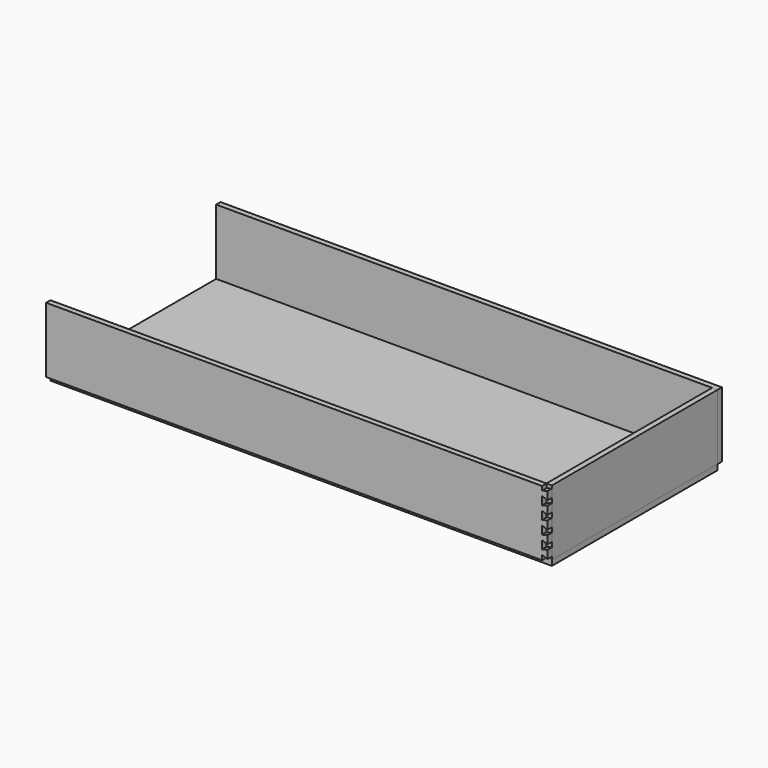
from build123d import *

# Parameters (mm, degrees)
F0_W     = 1168.4
F0_H     = 482.6
F1_DEPTH = 6.35
F2_W     = 1168.4
F2_H     = 152.4
F3_DEPTH = 12.7
F4_W     = 1168.4
F4_H     = 152.4
F5_DEPTH = 12.7
F6_W     = 482.6
F6_H     = 152.4
F7_DEPTH = 12.7
F9_DEPTH = 12.7


with BuildPart() as f1:
    # F0 (on Top) → F1 (new body, symmetric)
    with BuildSketch(Plane.XY):
        with Locations((-5.750306, -127.670162)):
            Rectangle(F0_W, F0_H)
    extrude(amount=F1_DEPTH, both=True)


with BuildPart() as f3:
    # F2 (on face) → F3 (new body)
    with BuildSketch(Plane.XZ.offset(368.970162)):
        with Locations((-5.750306, 82.55)):
            Rectangle(F2_W, F2_H)
    extrude(amount=F3_DEPTH)

    # F8 (on face) → F9 (cut)
    with BuildSketch(Plane.XZ.offset(381.670162)):
        Polygon((565.749694, 158.75), (565.749694, 149.225), (578.449694, 152.4), (578.449694, 158.75), align=None)
        Polygon((578.449694, 122.2375), (578.449694, 133.35), (565.749694, 138.1125), (565.749694, 119.0625), align=None)
        Polygon((578.449694, 92.075), (578.449694, 103.1875), (565.749694, 107.95), (565.749694, 88.9), align=None)
        Polygon((578.449694, 61.9125), (578.449694, 73.025), (565.749694, 77.7875), (565.749694, 58.7375), align=None)
        Polygon((578.449694, 31.75), (578.449694, 42.8625), (565.749694, 47.625), (565.749694, 28.575), align=None)
        Polygon((578.449694, 12.7), (565.749694, 17.4498), (565.749694, 6.35), (578.449694, 6.35), align=None)
    extrude(amount=-F9_DEPTH, mode=Mode.SUBTRACT)


with BuildPart() as f5:
    # F4 (on face) → F5 (new body)
    with BuildSketch(Plane(origin=(0, 113.629838, 0), x_dir=(-1, 0, 0), z_dir=(0, 1, 0))):
        with Locations((5.750306, 82.55)):
            Rectangle(F4_W, F4_H)
    extrude(amount=F5_DEPTH)


with BuildPart() as f7:
    # F6 (on face) → F7 (new body)
    with BuildSketch(Plane.YZ.offset(578.449694)):
        with Locations((-127.670162, 82.55)):
            Rectangle(F6_W, F6_H)
    extrude(amount=-F7_DEPTH)


solid = Compound([f1.part, f3.part, f5.part, f7.part])
